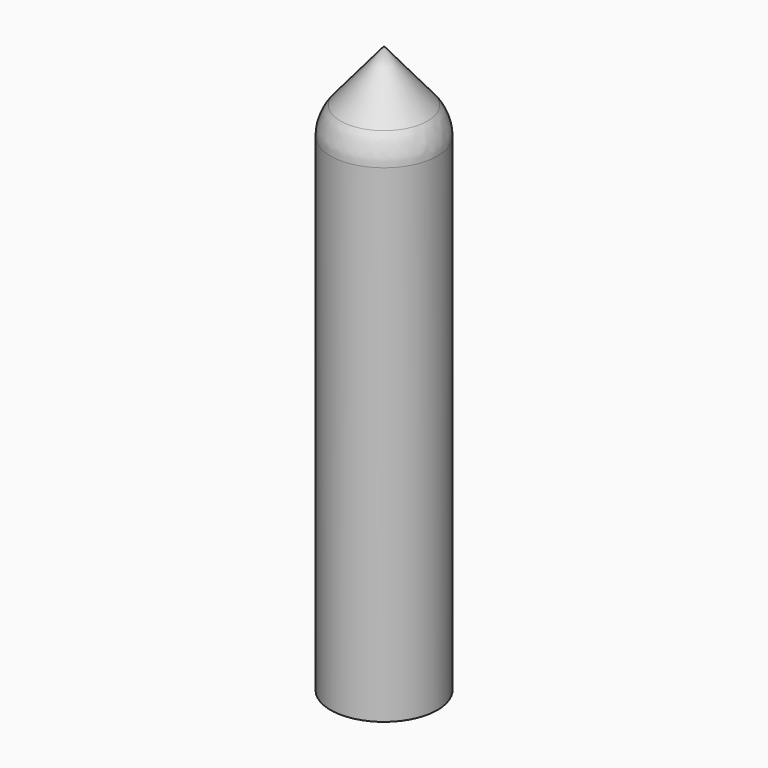
from build123d import *

# Parameters (mm, degrees)
F0_R     = 6.35
F1_DEPTH = 63.5
F3_R     = 6.35
F4_DEPTH = 3.81
F5_D     = 6.35
F5_DEPTH = 63.5
F5_TIP   = 1.9077324654
F6_SIZE2 = 7.567635313
F6_SIZE  = 6.35
F7_R     = 5.08


with BuildPart() as f1:
    # F0 (on Top) → F1 (new body)
    with BuildSketch(Plane.XY):
        with Locations((-23.0151098222, -49.1751506925)):
            Circle(F0_R)
    extrude(amount=F1_DEPTH)

    # F3 (on face) → F4 (join)
    with BuildSketch(Plane.XY.offset(63.5)):
        with Locations((-23.0151098222, -49.1751506925)):
            Circle(F3_R)
    extrude(amount=F4_DEPTH)

    # F5 (one way)
    with BuildSketch(Plane.XY.offset(63.5)):
        with Locations((-23.0151098222, -49.1751506925)):
            Circle(F5_D / 2)
    extrude(amount=-F5_DEPTH, mode=Mode.SUBTRACT)
    with Locations(Plane.XY.offset(63.5)):
        with Locations((-23.0151098222, -49.1751506925)):
            with Locations((0, 0, -(F5_DEPTH + F5_TIP / 2))):  # 118° drill point
                Cone(0, F5_D / 2, F5_TIP, mode=Mode.SUBTRACT)

    # F6
    f6_edges = [f1.edges().sort_by_distance(p)[0] for p in [
        (-29.36511, -49.175151, 67.31),
    ]]
    f6_side = f1.faces().sort_by_distance((-23.01511, -49.175151, 67.31))[0]
    chamfer(f6_edges, length=F6_SIZE, length2=F6_SIZE2, reference=f6_side)

    # F7
    f7_edges = [f1.edges().sort_by_distance(p)[0] for p in [
        (-29.36511, -49.175151, 59.742365),
    ]]
    fillet(f7_edges, radius=F7_R)


solid = f1.part
